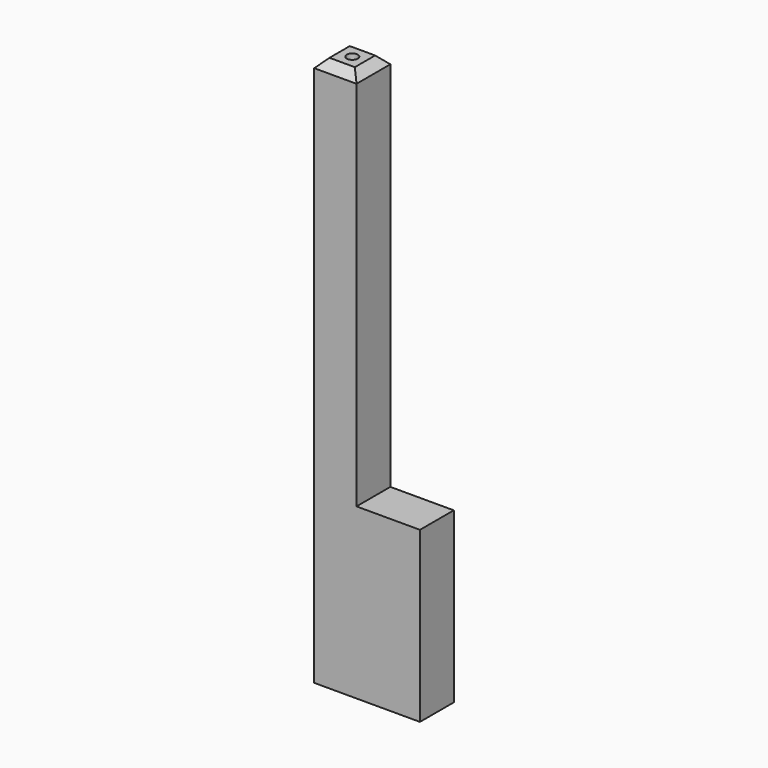
from build123d import *

# Parameters (mm, degrees)
F1_DEPTH = 5
F2_R     = 0.65
F3_DEPTH = 7
F4_SIZE  = 1


with BuildPart() as f1:
    # F0 (on Front) → F1 (new body)
    with BuildSketch(Plane.XZ):
        Polygon((-36.916861, 60.554342), (-41.916861, 60.554342), (-41.916861, -4.445658), (-36.916861, -4.445658), (-29.416861, -4.445658), (-29.416861, 15.554342), (-36.916861, 15.554342), align=None)
    extrude(amount=F1_DEPTH)

    # F2 (on face) → F3 (cut)
    with BuildSketch(Plane.XY.offset(60.554342)):
        with Locations((-39.416861, -2.5)):
            Circle(F2_R)
    extrude(amount=-F3_DEPTH, mode=Mode.SUBTRACT)

    # F4
    f4_edges = [f1.edges().sort_by_distance(p)[0] for p in [
        (-36.916861, -2.5, 60.554342),
        (-39.416861, -5, 60.554342),
        (-39.416861, 0, 60.554342),
        (-41.916861, -2.5, 60.554342),
    ]]
    chamfer(f4_edges, length=F4_SIZE)


solid = f1.part
